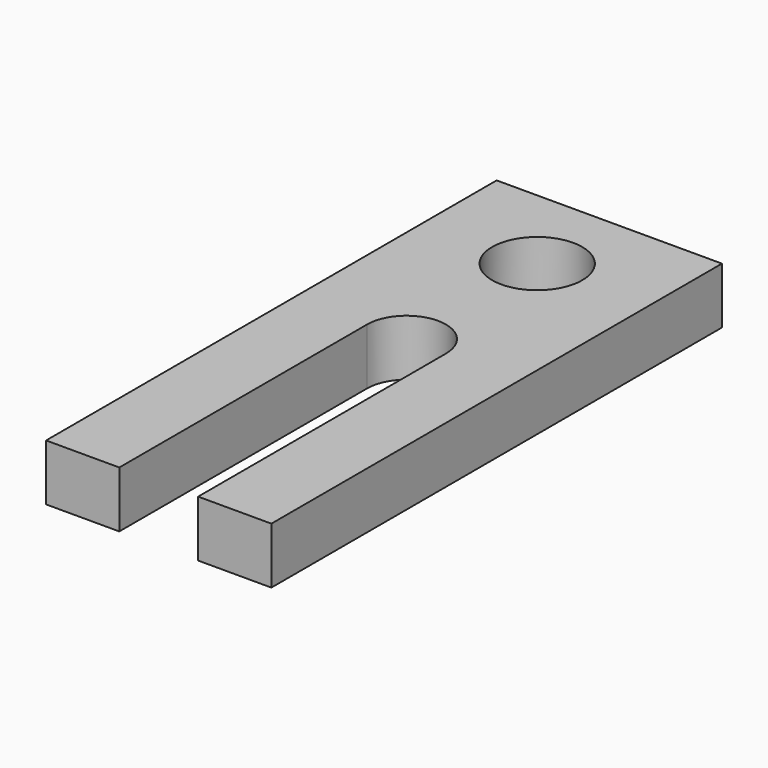
from build123d import *

# Parameters (mm, degrees)
F0_R     = 8
F1_DEPTH = 10


with BuildPart() as f1:
    # F0 (on Top) → F1 (new body)
    with BuildSketch(Plane.XY):
        with BuildLine():
            Line((7, -50), (20, -50))
            Line((20, -50), (20, 50))
            Line((20, 50), (-20, 50))
            Line((-20, 50), (-20, -50))
            Line((-20, -50), (-7, -50))
            Line((-7, -50), (-7, 5))
            ThreePointArc((-7, 5), (0, 12), (7, 5))
            Line((7, 5), (7, -50))
        make_face()
        with Locations((0, 34)):
            Circle(F0_R, mode=Mode.SUBTRACT)
    extrude(amount=F1_DEPTH)


solid = f1.part
